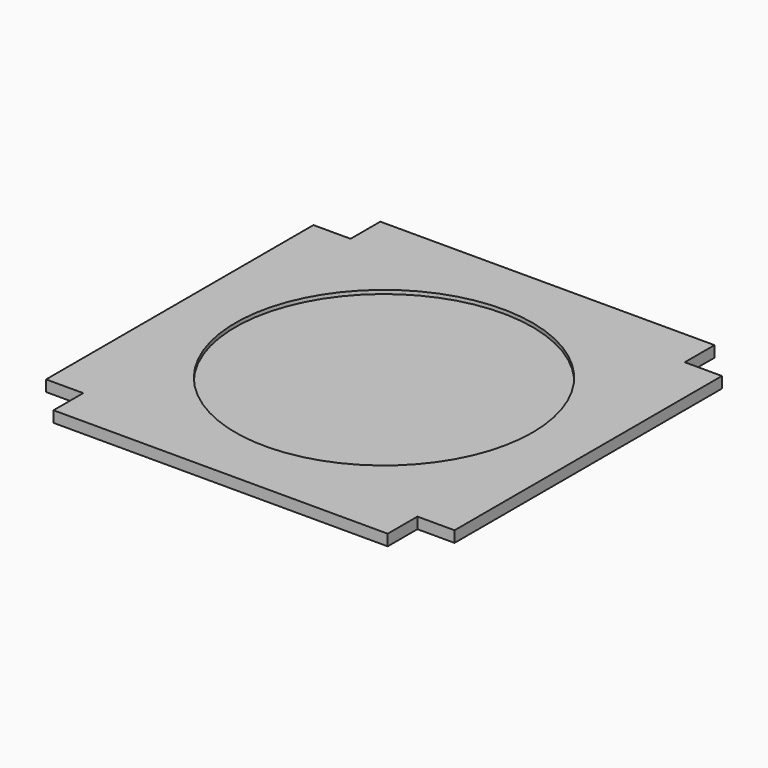
from build123d import *

# Parameters (mm, degrees)
F0_W     = 550
F0_H     = 550
F1_DEPTH = 15
F2_R     = 200
F3_DEPTH = 5
F4_W     = 50
F4_H     = 50
F5_DEPTH = 15


with BuildPart() as f1:
    # F0 (on Top) → F1 (new body)
    with BuildSketch(Plane.XY):
        Rectangle(F0_W, F0_H)
    extrude(amount=F1_DEPTH)

    # F2 (on face) → F3 (cut)
    with BuildSketch(Plane.XY.offset(15)):
        Circle(F2_R)
    extrude(amount=-F3_DEPTH, mode=Mode.SUBTRACT)

    # F4 (on face) → F5 (cut, through all)
    with BuildSketch(Plane(origin=(0, 0, 0), x_dir=(1, 0, 0), z_dir=(0, 0, -1))):
        with Locations((-250, 250)):
            Rectangle(F4_W, F4_H)
        with Locations((250, 250)):
            Rectangle(F4_W, F4_H)
        with Locations((-250, -250)):
            Rectangle(F4_W, F4_H)
        with Locations((250, -250)):
            Rectangle(F4_W, F4_H)
    extrude(amount=-F5_DEPTH, mode=Mode.SUBTRACT)


solid = f1.part
